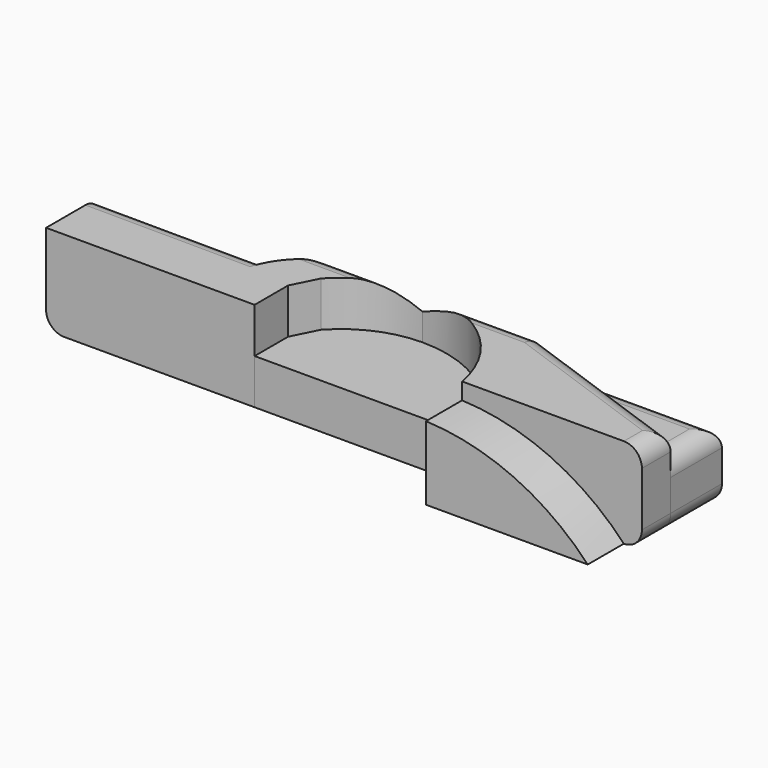
from build123d import *

# Parameters (mm, degrees)
F1_DEPTH = 25.4
F2_DEPTH = 19.05
F3_DEPTH = 12.7
F4_R     = 5.08
F4_2_R   = 5.08
F4_3_R   = 5.08
F4_4_R   = 5.08
F5_R     = 5.08
F5_2_R   = 5.08
F5_3_R   = 5.08
F5_4_R   = 5.08
F7_DEPTH = 12.7


with BuildPart() as f1:
    # F0 (on Top) → F1 (new body)
    with BuildSketch(Plane.XY):
        with BuildLine():
            Line((-62.2796677053, 18.9222916961), (-62.2796677053, 0))
            Line((-62.2796677053, 0), (-3.5758661106, 0))
            Line((-3.5758661106, 0), (-3.5758661106, 11.7705585435))
            Line((-3.5758661106, 11.7705585435), (0, 18.9222916961))
            ThreePointArc((0, 18.9222916961), (9.6142260587, 25.7498536747), (21.1572069675, 28.1599443406))
            Line((21.1572069675, 28.1599443406), (6.5557546914, 28.1599443406))
            Line((6.5557546914, 28.1599443406), (1.6481696245, 28.1599443406))
            ThreePointArc((1.6481696245, 28.1599443406), (-6.9608101144, 25.0977753778), (-13.409496285, 18.6243019998))
            Line((-13.409496285, 18.6243019998), (-62.2796677053, 18.9222916961))
        make_face()
    extrude(amount=F1_DEPTH)

    # F4#3
    f4_3_edges = [f1.edges().sort_by_distance(p)[0] for p in [
        (-37.844582, 18.773297, 25.4),
        (11.402688, 28.159944, 25.4),
    ]]
    fillet(f4_3_edges, radius=F4_3_R)

    # F5#3
    f5_3_edges = [f1.edges().sort_by_distance(p)[0] for p in [
        (11.402688, 28.159944, 0),
        (-62.279668, 9.461146, 0),
    ]]
    fillet(f5_3_edges, radius=F5_3_R)


with BuildPart() as f1b:
    # F0 (on Top) → F1, piece 2 (new body)
    with BuildSketch(Plane.XY):
        with BuildLine():
            ThreePointArc((21.1572069675, 28.1599443406), (43.1050751982, 20.1921357641), (54.8299439251, 0))
            Line((54.8299439251, 0), (105.4596230388, 0))
            Line((105.4596230388, 0), (105.4596230388, 10.1274566612))
            Line((105.4596230388, 10.1274566612), (54.8299439251, 28.1599443406))
            Line((54.8299439251, 28.1599443406), (21.1572069675, 28.1599443406))
        make_face()
    extrude(amount=F1_DEPTH)

    # F4
    f4_edges = [f1b.edges().sort_by_distance(p)[0] for p in [
        (80.144783, 19.143701, 25.4),
        (105.459623, 5.063728, 25.4),
        (37.993575, 28.159944, 25.4),
    ]]
    fillet(f4_edges, radius=F4_R)

    # F5
    f5_edges = [f1b.edges().sort_by_distance(p)[0] for p in [
        (105.459623, 5.063728, 0),
        (37.993575, 28.159944, 0),
    ]]
    fillet(f5_edges, radius=F5_R)

    # F6 (on face) → F7 (join)
    with BuildSketch(Plane.XZ):
        with BuildLine():
            Line((54.8299439251, 0), (100.3796230388, 0))
            ThreePointArc((100.3796230388, 0), (79.6426113996, 14.8370726692), (54.8299439251, 20.7102242857))
            Line((54.8299439251, 20.7102242857), (54.8299439251, 0))
        make_face()
    extrude(amount=F7_DEPTH)


with BuildPart() as f2:
    # F0 (on Top) → F2 (new body)
    with BuildSketch(Plane.XY):
        with BuildLine():
            Line((-62.2796677053, 28.1599443406), (-62.2796677053, 18.9222916961))
            Line((-62.2796677053, 18.9222916961), (-13.409496285, 18.6243019998))
            ThreePointArc((-13.409496285, 18.6243019998), (-6.9608101144, 25.0977753778), (1.6481696245, 28.1599443406))
            Line((1.6481696245, 28.1599443406), (-62.2796677053, 28.1599443406))
        make_face()
    extrude(amount=F2_DEPTH)

    # F4#4
    f4_4_edges = [f2.edges().sort_by_distance(p)[0] for p in [
        (-30.315749, 28.159944, 19.05),
    ]]
    fillet(f4_4_edges, radius=F4_4_R)

    # F5#4
    f5_4_edges = [f2.edges().sort_by_distance(p)[0] for p in [
        (-30.315749, 28.159944, 0),
        (-62.279668, 23.541118, 0),
    ]]
    fillet(f5_4_edges, radius=F5_4_R)


with BuildPart() as f2b:
    # F0 (on Top) → F2, piece 2 (new body)
    with BuildSketch(Plane.XY):
        Polygon((54.8299439251, 28.1599443406), (105.4596230388, 10.1274566612), (105.4596230388, 28.1599443406), align=None)
    extrude(amount=F2_DEPTH)

    # F4#2
    f4_2_edges = [f2b.edges().sort_by_distance(p)[0] for p in [
        (80.144783, 28.159944, 19.05),
        (105.459623, 19.143701, 19.05),
    ]]
    fillet(f4_2_edges, radius=F4_2_R)

    # F5#2
    f5_2_edges = [f2b.edges().sort_by_distance(p)[0] for p in [
        (105.459623, 19.143701, 0),
    ]]
    fillet(f5_2_edges, radius=F5_2_R)


with BuildPart() as f3:
    # F0 (on Top) → F3 (new body)
    with BuildSketch(Plane.XY):
        with BuildLine():
            Line((-3.5758661106, 11.7705585435), (-3.5758661106, 0))
            Line((-3.5758661106, 0), (54.8299439251, 0))
            ThreePointArc((54.8299439251, 0), (43.1050751982, 20.1921357641), (21.1572069675, 28.1599443406))
            ThreePointArc((21.1572069675, 28.1599443406), (9.6142260587, 25.7498536747), (0, 18.9222916961))
            Line((0, 18.9222916961), (-3.5758661106, 11.7705585435))
        make_face()
    extrude(amount=F3_DEPTH)


solid = Compound([f1.part, f1b.part, f2.part, f2b.part, f3.part])
